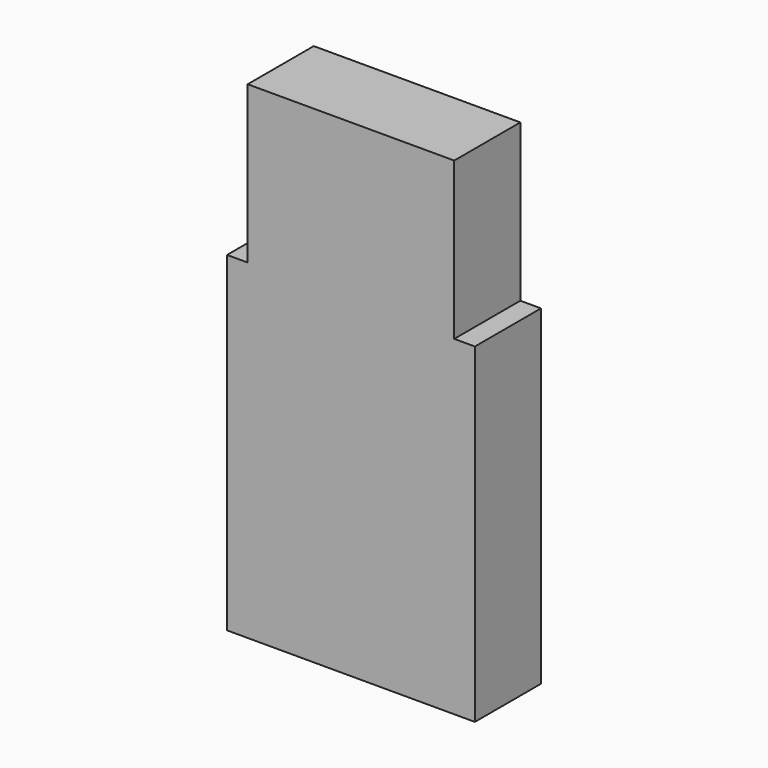
from build123d import *

# Parameters (mm, degrees)
F0_W     = 30
F0_H     = 10
F1_DEPTH = 40
F2_W     = 25
F2_H     = 10
F3_DEPTH = 12
F4_W     = 25
F4_H     = 10
F5_DEPTH = 7


with BuildPart() as f1:
    # F0 (on Top) → F1 (new body)
    with BuildSketch(Plane.XY):
        Rectangle(F0_W, F0_H)
    extrude(amount=F1_DEPTH)

    # F2 (on face) → F3 (join)
    with BuildSketch(Plane.XY.offset(40)):
        Rectangle(F2_W, F2_H)
    extrude(amount=F3_DEPTH)

    # F4 (on face) → F5 (join)
    with BuildSketch(Plane.XY.offset(52)):
        Rectangle(F4_W, F4_H)
    extrude(amount=F5_DEPTH)


solid = f1.part
